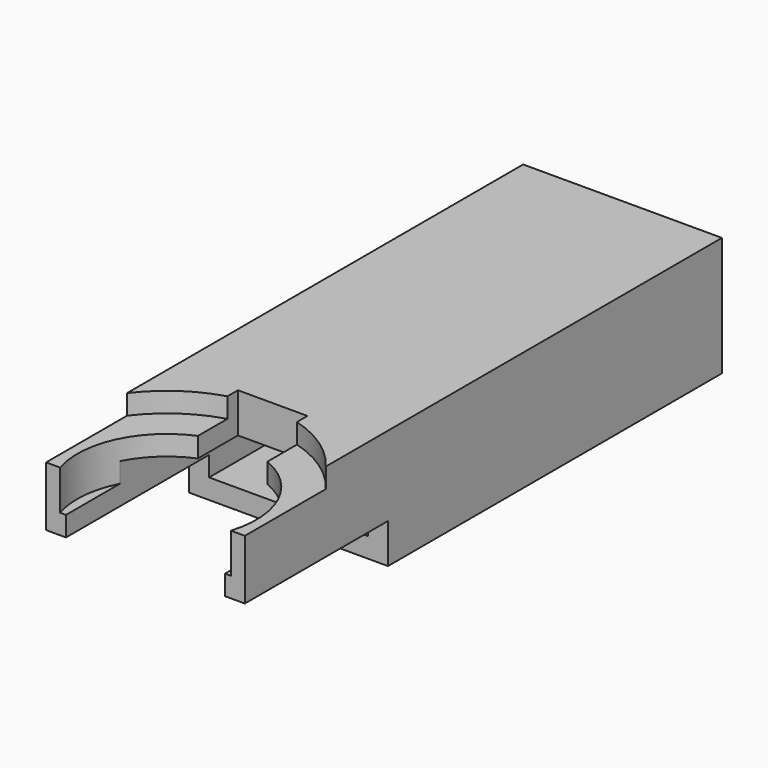
from build123d import *

# Parameters (mm, degrees)
SKETCH_W        = 10
SKETCH_H        = 30
PAD_DEPTH       = 5
THICKNESS_T     = -1
POCKET_DEPTH    = 2
SKETCH002_W     = 10
SKETCH002_H     = 9
POCKET001_DEPTH = 2
PAD001_DEPTH    = 1


with BuildPart() as part:
    # Sketch → Pad (new body)
    with BuildSketch(Plane.XY):
        with Locations((5, 15)):
            Rectangle(SKETCH_W, SKETCH_H)
    extrude(amount=PAD_DEPTH)

    # Thickness
    thickness_openings = [part.faces().sort_by_distance(p)[0] for p in [
        (5, 0, 2.5),
    ]]
    offset(amount=THICKNESS_T, openings=thickness_openings)

    # Sketch001 (on Face5 of Thickness) → Pocket (cut)
    with BuildSketch(Plane.XY.offset(5)):
        with BuildLine():
            Line((3.25, 5.485527), (3.25, 8))
            Line((3.25, 8), (6.75, 8))
            Line((6.75, 8), (6.75, 5.485527))
            ThreePointArc((9.295938, 0), (9.0818, 3.234187), (6.75, 5.485527))
            Line((0.704062, 0), (9.295938, 0))
            ThreePointArc((3.25, 5.485527), (0.9182, 3.234187), (0.704062, 0))
        make_face()
    extrude(amount=-POCKET_DEPTH, mode=Mode.SUBTRACT)

    # Sketch002 (on Face4 of Pocket) → Pocket001 (cut)
    with BuildSketch(Plane(origin=(0, 0, 0), x_dir=(1, 0, 0), z_dir=(0, 0, -1))):
        with Locations((5, -4.5)):
            Rectangle(SKETCH002_W, SKETCH002_H)
    extrude(amount=-POCKET001_DEPTH, mode=Mode.SUBTRACT)

    # Sketch003 (on Face6 of Pocket001) → Pad001 (join)
    with BuildSketch(Plane.XY.offset(5)):
        with BuildLine():
            Line((0, 30), (10, 30))
            Line((10, 30), (10, 5.089746))
            ThreePointArc((10, 5.089746), (8.557562, 6.478447), (6.75, 7.339746))
            Line((6.75, 8), (6.75, 7.339746))
            Line((3.25, 8), (6.75, 8))
            Line((3.25, 7.339746), (3.25, 8))
            ThreePointArc((3.25, 7.339746), (1.442438, 6.478447), (0, 5.089746))
            Line((0, 30), (0, 5.089746))
        make_face()
    extrude(amount=PAD001_DEPTH)


solid = part.part
